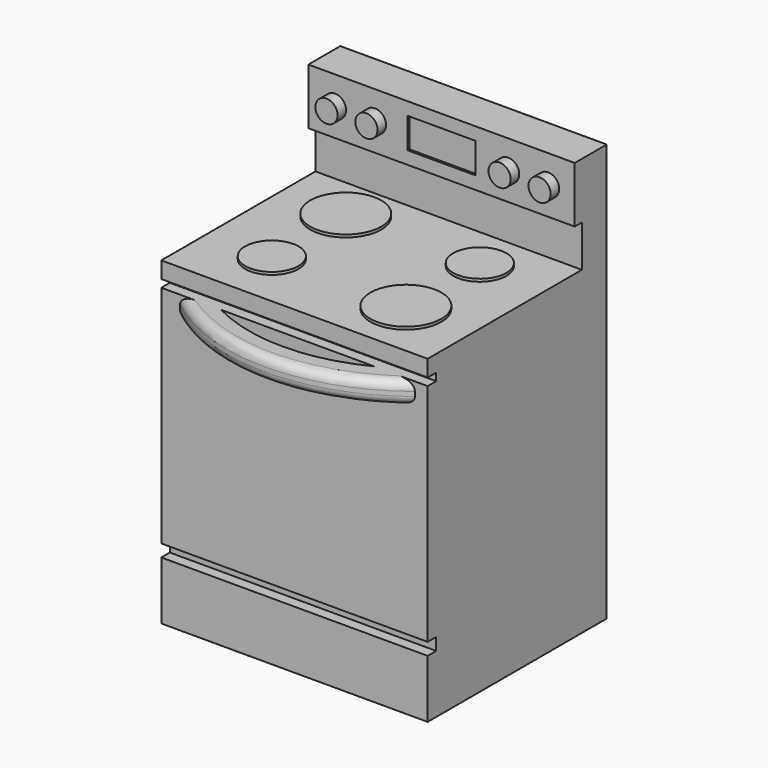
from build123d import *

# Parameters (mm, degrees)
F0_W      = 762
F0_H      = 609.6
F1_DEPTH  = 914.4
F2_R      = 101.6
F2_R_2    = 76.2
F3_DEPTH  = 7.62
F2_W      = 762
F2_H      = 88.9
F4_DEPTH  = 279.4
F5_W      = 762
F5_H      = 47.1075362206
F5_H_2    = 643.9726948738
F5_H_3    = 166.3404107094
F6_DEPTH  = 30.48
F8_DEPTH  = 63.5
F9_R      = 25.4
F10_W     = 762
F10_H     = 160.2732217789
F11_DEPTH = 25.4
F12_R     = 31.75
F13_DEPTH = 30.48
F12_W     = 194.5324838161
F12_H     = 87.0171510696
F14_DEPTH = 6.35
F15_W     = 533.4
F15_H     = 386.08
F16_DEPTH = 762.762


with BuildPart() as f1:
    # F0 (on Top) → F1 (new body)
    with BuildSketch(Plane.XY):
        Rectangle(F0_W, F0_H)
    extrude(amount=F1_DEPTH)

    # F2 (on face) → F3 (join)
    with BuildSketch(Plane.XY.offset(914.4)):
        with Locations((-191.7613367384, 87.7341254172)):
            Circle(F2_R)
        with Locations((-191.7613367384, -176.6341254172)):
            Circle(F2_R_2)
        with Locations((191.7613367384, 87.7341254172)):
            Circle(F2_R_2)
        with Locations((191.7613367384, -176.6341254172)):
            Circle(F2_R)
    extrude(amount=F3_DEPTH)

    # F2 (on face) → F4 (join)
    with BuildSketch(Plane.XY.offset(914.4)):
        with Locations((0, 260.35)):
            Rectangle(F2_W, F2_H)
    extrude(amount=F4_DEPTH)

    # F5 (on face) → F6 (join)
    with BuildSketch(Plane.XZ.offset(304.8)):
        with Locations((0, 890.8462318897)):
            Rectangle(F5_W, F5_H)
        with Locations((0, 523.5575735569)):
            Rectangle(F5_W, F5_H_2)
        with Locations((0, 83.1702053547)):
            Rectangle(F5_W, F5_H_3)
    extrude(amount=F6_DEPTH)

    # F7 (on face) → F8 (join)
    with BuildSketch(Plane.XY.offset(845.5439209938)):
        with BuildLine():
            Line((-210.1894695859, -335.28), (-327.3042738438, -335.28))
            ThreePointArc((-327.3042738438, -335.28), (8.59336555, -451.5700550038), (344.4910049438, -335.28))
            Line((344.4910049438, -335.28), (227.376200686, -335.28))
            ThreePointArc((227.376200686, -335.28), (8.5933655501, -388.0700550038), (-210.1894695859, -335.28))
        make_face()
    extrude(amount=-F8_DEPTH)

    # F9
    f9_edges = [f1.edges().sort_by_distance(p)[0] for p in [
        (8.593366, -451.570055, 845.543921),
        (8.593366, -451.570055, 782.043921),
    ]]
    fillet(f9_edges, radius=F9_R)

    # F10 (on face) → F11 (join)
    with BuildSketch(Plane.XZ.offset(-215.9)):
        with Locations((0, 1113.6633891106)):
            Rectangle(F10_W, F10_H)
    extrude(amount=F11_DEPTH)

    # F12 (on face) → F13 (join)
    with BuildSketch(Plane.XZ.offset(-190.5)):
        with Locations((-304.8, 1113.6633891106)):
            Circle(F12_R)
        with Locations((-190.5, 1113.6633891106)):
            Circle(F12_R)
        with Locations((190.5, 1113.6633891106)):
            Circle(F12_R)
        with Locations((304.8, 1113.6633891106)):
            Circle(F12_R)
    extrude(amount=F13_DEPTH)

    # F12 (on face) → F14 (cut)
    with BuildSketch(Plane.XZ.offset(-190.5)):
        with Locations((0, 1113.6633891106)):
            Rectangle(F12_W, F12_H)
    extrude(amount=-F14_DEPTH, mode=Mode.SUBTRACT)

    # F15 (on face) → F16 (cut)
    with BuildSketch(Plane(origin=(0, 0, 0), x_dir=(1, 0, 0), z_dir=(0, 0, -1))):
        with Locations((12.7, 15.24)):
            Rectangle(F15_W, F15_H)
    extrude(amount=-F16_DEPTH, mode=Mode.SUBTRACT)


solid = f1.part
